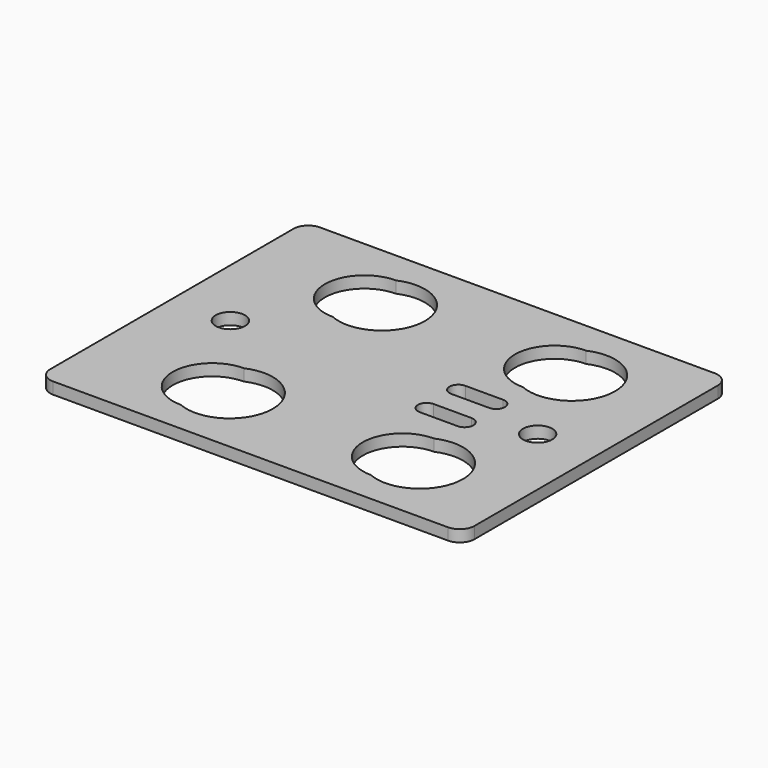
from build123d import *

# Parameters (mm, degrees)
F0_R     = 5
F1_DEPTH = 4


with BuildPart() as f1:
    # F0 (on Top) → F1 (new body)
    with BuildSketch(Plane.XY):
        with BuildLine():
            Line((67.5, 57), (-67.5, 57))
            ThreePointArc((-67.5, 57), (-71.035534, 55.535534), (-72.5, 52))
            Line((-72.5, 52), (-72.5, -52))
            ThreePointArc((-72.5, -52), (-71.035534, -55.535534), (-67.5, -57))
            Line((-67.5, -57), (67.5, -57))
            ThreePointArc((67.5, -57), (71.035534, -55.535534), (72.5, -52))
            Line((72.5, -52), (72.5, 52))
            ThreePointArc((72.5, 52), (71.035534, 55.535534), (67.5, 57))
        make_face()
        with BuildLine():
            ThreePointArc((-32.5, -46.25), (-46, -32.75), (-32.5, -19.25))
            ThreePointArc((-32.5, -19.25), (-11.807568, -32.75), (-32.5, -46.25))
        make_face(mode=Mode.SUBTRACT)
        with BuildLine():
            ThreePointArc((32.5, -46.25), (19, -32.75), (32.5, -19.25))
            ThreePointArc((32.5, -19.25), (53.192432, -32.75), (32.5, -46.25))
        make_face(mode=Mode.SUBTRACT)
        with BuildLine():
            ThreePointArc((20, -9.75), (17, -6.75), (20, -3.75))
            Line((20, -3.75), (32.944568, -3.75))
            ThreePointArc((32.944568, -3.75), (35.944568, -6.75), (32.944568, -9.75))
            Line((32.944568, -9.75), (20, -9.75))
        make_face(mode=Mode.SUBTRACT)
        with Locations((-52.5, 0)):
            Circle(F0_R, mode=Mode.SUBTRACT)
        with BuildLine():
            ThreePointArc((-32.5, 18.75), (-46, 32.25), (-32.5, 45.75))
            ThreePointArc((-32.5, 45.75), (-11.807568, 32.25), (-32.5, 18.75))
        make_face(mode=Mode.SUBTRACT)
        with BuildLine():
            ThreePointArc((20, 3.75), (17, 6.75), (20, 9.75))
            Line((20, 9.75), (32.944568, 9.75))
            ThreePointArc((32.944568, 9.75), (35.944568, 6.75), (32.944568, 3.75))
            Line((32.944568, 3.75), (20, 3.75))
        make_face(mode=Mode.SUBTRACT)
        with Locations((52.5, 0)):
            Circle(F0_R, mode=Mode.SUBTRACT)
        with BuildLine():
            ThreePointArc((32.5, 18.75), (19, 32.25), (32.5, 45.75))
            ThreePointArc((32.5, 45.75), (53.192432, 32.25), (32.5, 18.75))
        make_face(mode=Mode.SUBTRACT)
    extrude(amount=F1_DEPTH)


solid = f1.part
